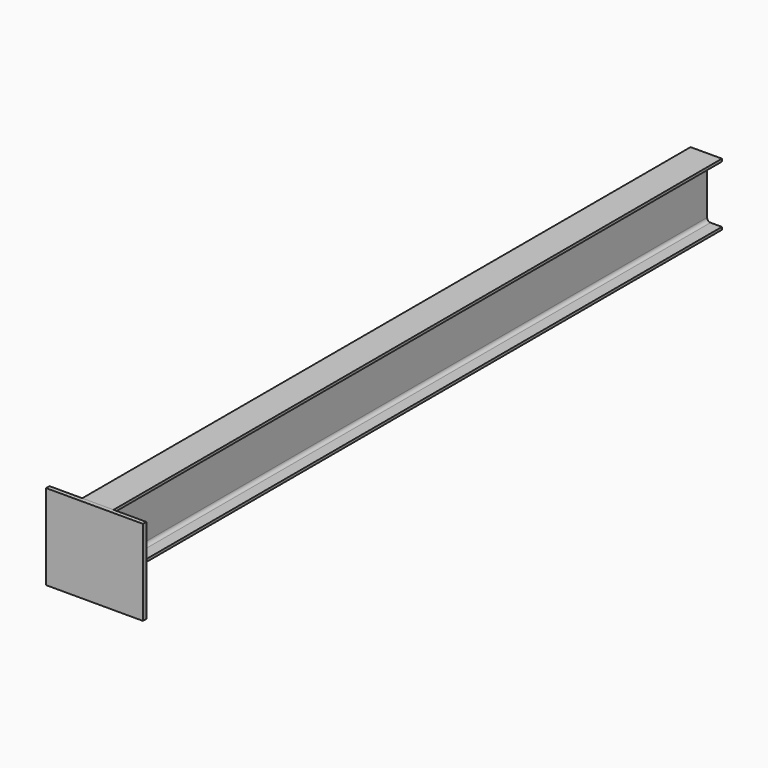
from build123d import *

# Parameters (mm, degrees)
F1_DEPTH = 1335
F2_W     = 340
F2_H     = 300
F3_DEPTH = 15


with BuildPart() as f1:
    # F0 (on Front) → F1 (new body, symmetric)
    with BuildSketch(Plane.XZ):
        with BuildLine():
            Line((-55, -100.8), (-55, -110))
            Line((-55, -110), (0, -110))
            Line((0, -110), (55, -110))
            Line((55, -110), (55, -100.8))
            Line((55, -100.8), (14.95, -100.8))
            ThreePointArc((14.95, -100.8), (6.464719, -97.285281), (2.95, -88.8))
            Line((2.95, -88.8), (2.95, 0))
            Line((2.95, 0), (2.95, 88.8))
            ThreePointArc((2.95, 88.8), (6.464719, 97.285281), (14.95, 100.8))
            Line((14.95, 100.8), (55, 100.8))
            Line((55, 100.8), (55, 110))
            Line((55, 110), (0, 110))
            Line((0, 110), (-55, 110))
            Line((-55, 110), (-55, 100.8))
            Line((-55, 100.8), (-14.95, 100.8))
            ThreePointArc((-14.95, 100.8), (-6.464719, 97.285281), (-2.95, 88.8))
            Line((-2.95, 88.8), (-2.95, 0))
            Line((-2.95, 0), (-2.95, -88.8))
            ThreePointArc((-2.95, -88.8), (-6.464719, -97.285281), (-14.95, -100.8))
            Line((-14.95, -100.8), (-55, -100.8))
        make_face()
    extrude(amount=F1_DEPTH, both=True)


with BuildPart() as f3:
    # F2 (on face) → F3 (new body)
    with BuildSketch(Plane.XZ.offset(1335)):
        with Locations((0, -40)):
            Rectangle(F2_W, F2_H)
        with BuildLine():
            Line((-55, 110), (-170, 110))
            Line((-170, 110), (-170, -190))
            Line((-170, -190), (170, -190))
            Line((170, -190), (170, 110))
            Line((170, 110), (55, 110))
            Line((55, 110), (55, 100.8))
            Line((55, 100.8), (14.95, 100.8))
            ThreePointArc((14.95, 100.8), (6.464719, 97.285281), (2.95, 88.8))
            Line((2.95, 88.8), (2.95, -88.8))
            ThreePointArc((2.95, -88.8), (6.464719, -97.285281), (14.95, -100.8))
            Line((14.95, -100.8), (55, -100.8))
            Line((55, -100.8), (55, -110))
            Line((55, -110), (-55, -110))
            Line((-55, -110), (-55, -100.8))
            Line((-55, -100.8), (-14.95, -100.8))
            ThreePointArc((-14.95, -100.8), (-6.464719, -97.285281), (-2.95, -88.8))
            Line((-2.95, -88.8), (-2.95, 88.8))
            ThreePointArc((-2.95, 88.8), (-6.464719, 97.285281), (-14.95, 100.8))
            Line((-14.95, 100.8), (-55, 100.8))
            Line((-55, 100.8), (-55, 110))
        make_face()
    extrude(amount=F3_DEPTH)


solid = Compound([f1.part, f3.part])
